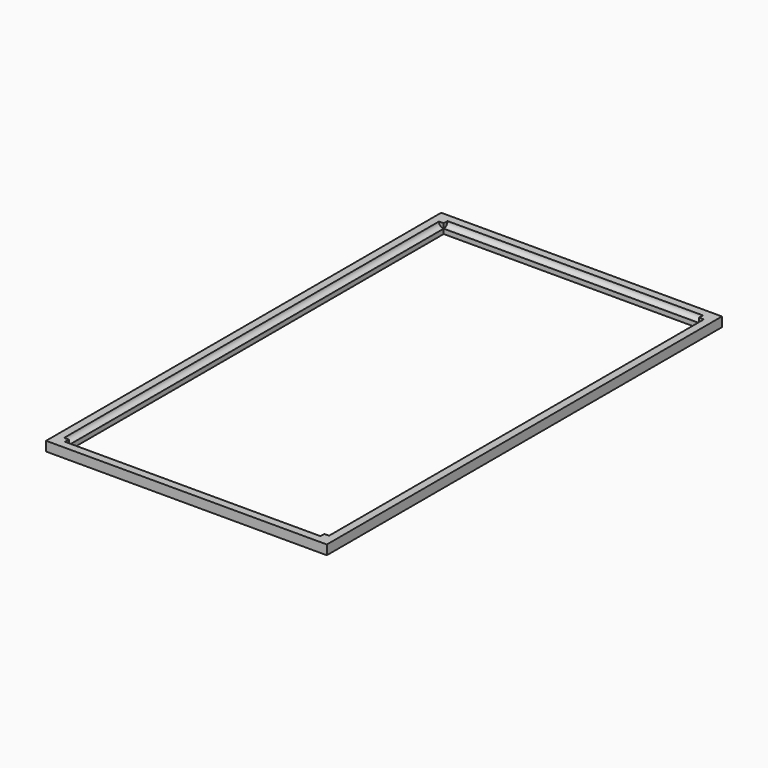
from build123d import *

# Parameters (mm, degrees)
F1_DEPTH = 1.5
F4_DEPTH = 40.341
F5_DEPTH = 74


with BuildPart() as f1:
    # F0 (on Top) → F1 (new body)
    with BuildSketch(Plane.XY):
        Polygon((-44.341, 78), (-44.341, 15.8245135099), (-42.341, 15.8245135099), (-42.341, 76), (-24.9481573701, 76), (-24.9481573701, 78), align=None)
        Polygon((-44.341, 0), (0, 0), (0, 78), (-24.9481573701, 78), (-24.9481573701, 76), (-2, 76), (-2, 2), (-42.341, 2), (-42.341, 15.8245135099), (-44.341, 15.8245135099), align=None)
    extrude(amount=F1_DEPTH)

    # F2 (on face) → F4 (cut)
    with BuildSketch(Plane.YZ.offset(-42.341)):
        with BuildLine():
            ThreePointArc((76, 0.75), (76.5303300859, 0.9696699141), (76.75, 1.5))
            ThreePointArc((76.75, 1.5), (76, 2.25), (75.25, 1.5))
            Line((75.25, 1.5), (76, 1.5))
            Line((76, 1.5), (76, 0.75))
        make_face()
        with BuildLine():
            Line((76, 1.5), (75.25, 1.5))
            ThreePointArc((75.25, 1.5), (75.4696699141, 0.9696699141), (76, 0.75))
            Line((76, 0.75), (76, 1.5))
        make_face()
        with BuildLine():
            Line((2, 1.5), (2.75, 1.5))
            ThreePointArc((2.75, 1.5), (1.4696699141, 2.0303300859), (2, 0.75))
            Line((2, 0.75), (2, 1.5))
        make_face()
        with BuildLine():
            ThreePointArc((2, 0.75), (2.5303300859, 0.9696699141), (2.75, 1.5))
            Line((2.75, 1.5), (2, 1.5))
            Line((2, 1.5), (2, 0.75))
        make_face()
    extrude(amount=F4_DEPTH, mode=Mode.SUBTRACT)

    # F3 (on face) → F5 (cut)
    with BuildSketch(Plane.XZ.offset(-76)):
        with BuildLine():
            Line((-42.341, 1.5), (-41.591, 1.5))
            ThreePointArc((-41.591, 1.5), (-42.8713300859, 2.0303300859), (-42.341, 0.75))
            Line((-42.341, 0.75), (-42.341, 1.5))
        make_face()
        with BuildLine():
            ThreePointArc((-42.341, 0.75), (-41.8106699141, 0.9696699141), (-41.591, 1.5))
            Line((-41.591, 1.5), (-42.341, 1.5))
            Line((-42.341, 1.5), (-42.341, 0.75))
        make_face()
        with BuildLine():
            ThreePointArc((-1.25, 1.5), (-2, 2.25), (-2.75, 1.5))
            Line((-2.75, 1.5), (-2, 1.5))
            Line((-2, 1.5), (-2, 0.75))
            ThreePointArc((-2, 0.75), (-1.4696699141, 0.9696699141), (-1.25, 1.5))
        make_face()
        with BuildLine():
            Line((-2, 1.5), (-2.75, 1.5))
            ThreePointArc((-2.75, 1.5), (-2.5303300859, 0.9696699141), (-2, 0.75))
            Line((-2, 0.75), (-2, 1.5))
        make_face()
    extrude(amount=F5_DEPTH, mode=Mode.SUBTRACT)


solid = f1.part
